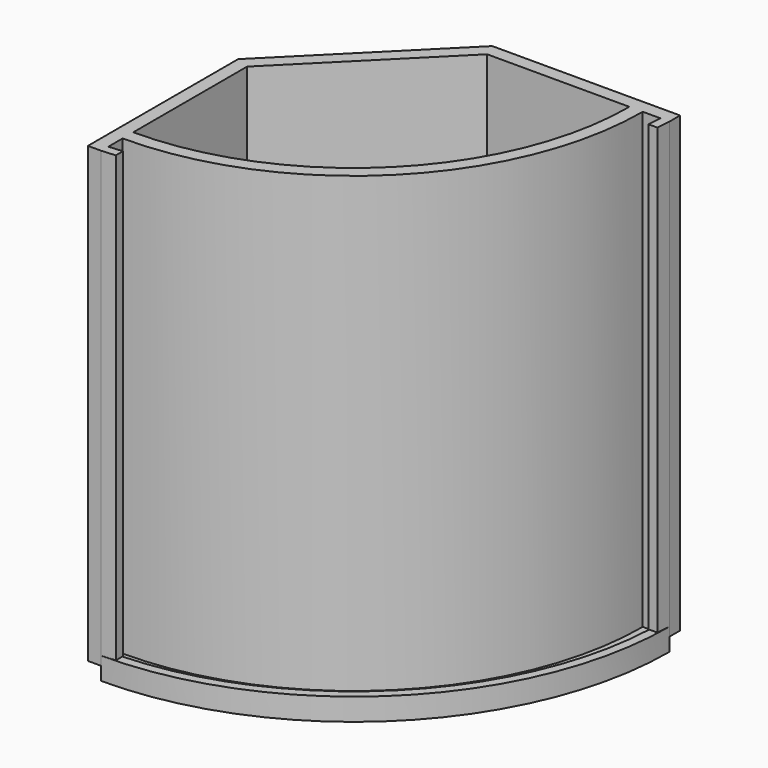
from build123d import *

# Parameters (mm, degrees)
REVOLUTION_ANGLE = -90
POCKET_DEPTH     = 3
PAD_DEPTH        = 102
PAD001_DEPTH     = 102
PAD002_DEPTH     = 102
SKETCH005_R      = 6
POCKET001_DEPTH  = 3
PAD003_DEPTH     = 80
PAD004_DEPTH     = 80


with BuildPart() as part:
    # Sketch → Revolution (revolve)
    with BuildSketch(Plane.XZ):
        Polygon((0, 0), (71, 0), (71, 5), (69, 5), (69, 3), (65, 3), (65, 105), (62, 105), (62, 3), (0, 3), align=None)
    revolve(axis=Axis((0, 0, 0), (0, 0, 1)), revolution_arc=REVOLUTION_ANGLE)

    # Sketch001 (on Face9 of Revolution) → Pocket (cut)
    with BuildSketch(Plane(origin=(0, 0, 3), x_dir=(-1, 0, 0), z_dir=(0, 0, 1))):
        Polygon((0, 0), (-30, 0), (0, 30), align=None)
    extrude(amount=-POCKET_DEPTH, mode=Mode.SUBTRACT)

    # Sketch002 (on Face7 of Pocket) → Pad (join)
    with BuildSketch(Plane(origin=(0, 0, 3), x_dir=(-1, 0, 0), z_dir=(0, 0, 1))):
        Polygon((0, 71), (0, 30), (-30, 0), (-71, 0), (-71, -3), (-28.7574, -3), (3, 28.7574), (3, 71), align=None)
    extrude(amount=PAD_DEPTH)

    # Sketch003 (on Face24 of Pad) → Pad001 (join)
    with BuildSketch(Plane(origin=(0, 0, 3), x_dir=(-1, 0, 0), z_dir=(0, 0, 1))):
        Polygon((0, 71), (0, 69), (-3.090822, 68.761632), (-3.090822, 70.761632), align=None)
    extrude(amount=PAD001_DEPTH)

    # Sketch004 (on Face28 of Pad001) → Pad002 (join)
    with BuildSketch(Plane(origin=(0, 0, 3), x_dir=(-1, 0, 0), z_dir=(0, 0, 1))):
        Polygon((-71, 0), (-69, 0), (-68.761632, 3.090822), (-70.761632, 3.090822), align=None)
    extrude(amount=PAD002_DEPTH)

    # Sketch005 (on Face18 of Pad002) → Pocket001 (cut)
    with BuildSketch(Plane(origin=(12.8787, -12.8787, 0), x_dir=(0.707107, 0.707107, 0), z_dir=(-0.707107, 0.707107, 0))):
        with Locations((0, -15)):
            Circle(SKETCH005_R)
    extrude(amount=-POCKET001_DEPTH, mode=Mode.SUBTRACT)

    # Sketch006 (on Face33 of Pocket001) → Pad003 (join)
    with BuildSketch(Plane(origin=(0, 0, 3), x_dir=(-1, 0, 0), z_dir=(0, 0, 1))):
        Polygon((-23.770153, 52.052386), (-18.11127, 57.70721), (-15.001117, 54.594824), (-20.66, 48.94), (-21.508224, 49.788833), (-17.264061, 54.029951), (-18.677767, 55.444672), (-22.92193, 51.203553), align=None)
        Polygon((-57.711085, 18.111455), (-52.053894, 23.767973), (-51.205416, 22.919394), (-55.448309, 18.677006), (-54.03418, 17.262708), (-49.791287, 21.505096), (-48.942809, 20.656518), (-54.6, 15), align=None)
    extrude(amount=PAD003_DEPTH)

    # Sketch006 (on Face33 of Pocket001) → Pad004 (join)
    with BuildSketch(Plane(origin=(0, 0, 3), x_dir=(-1, 0, 0), z_dir=(0, 0, 1))):
        Polygon((-23.770153, 52.052386), (-18.11127, 57.70721), (-15.001117, 54.594824), (-20.66, 48.94), (-21.508224, 49.788833), (-17.264061, 54.029951), (-18.677767, 55.444672), (-22.92193, 51.203553), align=None)
        Polygon((-57.711085, 18.111455), (-52.053894, 23.767973), (-51.205416, 22.919394), (-55.448309, 18.677006), (-54.03418, 17.262708), (-49.791287, 21.505096), (-48.942809, 20.656518), (-54.6, 15), align=None)
    extrude(amount=PAD004_DEPTH)


solid = part.part
